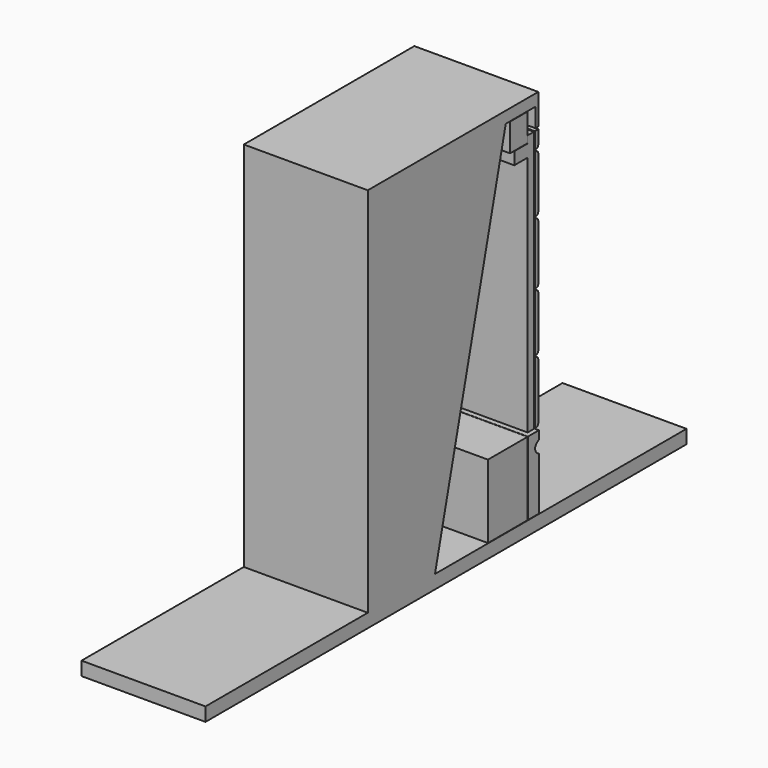
from build123d import *

# Parameters (mm, degrees)
F1_DEPTH      = 100
F1_DEPTH_BACK = 100
F0_W          = 34.9759974469
F0_H          = 45
F0_W_2        = 80
F0_H_2        = 39.9999883202
F0_H_3        = 39.5000116798
F0_H_4        = 38.9489678172
F0_W_3        = 23.8797763255
F0_H_5        = 20


with BuildPart() as f1:
    # F0 (on Right) → F1 (new body, two sides)
    with BuildSketch(Plane.YZ) as f1_sk:
        Polygon((-427.7376234531, 0), (-754.9997070302, 0), (-754.9997070302, -22), (214.9425135471, -22), (214.9425135471, 0), (-292.2143008412, 0), align=None)
        Polygon((-427.7376234531, 600), (-427.7376234531, 0), (-292.2143008412, 0), (-149.4990265369, 581.3576579094), (-89.4990265369, 581.3576579094), (-89.4990265369, 550.6148771089), (-83.9142134201, 550.6148771089), (-83.9142134201, 600), align=None)
    extrude(amount=F1_DEPTH)
    extrude(f1_sk.sketch, amount=-F1_DEPTH_BACK)


with BuildPart() as f1b:
    # F0 (on Right) → F1, piece 2 (new body, two sides)
    with BuildSketch(Plane.YZ) as f1_2_sk:
        with Locations((-123.4022121435, 558.3576579094)):
            Rectangle(F0_W, F0_H)
    extrude(amount=F1_DEPTH)
    extrude(f1_2_sk.sketch, amount=-F1_DEPTH_BACK)


with BuildPart() as f1c:
    # F0 (on Right) → F1, piece 3 (new body, two sides)
    with BuildSketch(Plane.YZ) as f1_3_sk:
        with Locations((-145.4142134201, 60.0000058399)):
            Rectangle(F0_W_2, F0_H_2)
        with Locations((-145.4142134201, 20.2500058399)):
            Rectangle(F0_W_2, F0_H_3)
        with Locations((-145.4142134201, 99.4744839086)):
            Rectangle(F0_W_2, F0_H_4)
    extrude(amount=F1_DEPTH)
    extrude(f1_3_sk.sketch, amount=-F1_DEPTH_BACK)


with BuildPart() as f1d:
    # F0 (on Right) → F1, piece 4 (new body, two sides)
    with BuildSketch(Plane.YZ) as f1_4_sk:
        with BuildLine():
            Line((-104.9142134201, 0.5), (-82.6184755082, 0.5))
            Line((-82.6184755082, 0.5), (-82.6962319007, 85.5785166937))
            add(Edge.make_bspline(
                [(-82.7145062746, 105.5737424313), (-88.3483122438, 101.991181286), (-92.1908083791, 96.734138044), (-88.6080723378, 88.645690703), (-82.6962319007, 85.5785166937)],
                knots=[0, 0, 0, 0, 0.4908509799, 1, 1, 1, 1], degree=3))
            Line((-82.7145062746, 105.5737424313), (-82.7267303861, 118.9489678172))
            Line((-82.7267303861, 118.9489678172), (-104.9142134201, 118.9489678172))
            Line((-104.9142134201, 118.9489678172), (-104.9142134201, 0.5))
        make_face()
    extrude(amount=F1_DEPTH)
    extrude(f1_4_sk.sketch, amount=-F1_DEPTH_BACK)


with BuildPart() as f1e:
    # F0 (on Right) → F1, piece 5 (new body, two sides)
    with BuildSketch(Plane.YZ) as f1_5_sk:
        Polygon((-105.4142134201, 515.3576579094), (-105.4142134201, 125), (-92.9142134201, 125), (-92.9142134201, 547), (-105.4142134201, 547), (-105.4142134201, 535.3576579094), align=None)
        Polygon((-107.2939897456, 515.3576579094), (-105.4142134201, 515.3576579094), (-105.4142134201, 535.3576579094), (-107.1194523898, 535.3576579094), align=None)
        Polygon((-108.4142134201, 515.3576579094), (-107.2939897456, 515.3576579094), (-107.1194523898, 535.3576579094), (-108.4142134201, 535.3576579094), align=None)
        with Locations((-120.3541015828, 525.3576579094)):
            Rectangle(F0_W_3, F0_H_5)
    extrude(amount=F1_DEPTH)
    extrude(f1_5_sk.sketch, amount=-F1_DEPTH_BACK)


with BuildPart() as f1f:
    # F0 (on Right) → F1, piece 6 (new body, two sides)
    with BuildSketch(Plane.YZ) as f1_6_sk:
        with BuildLine():
            Line((-88.9142134201, 225), (-90.9142134201, 225))
            Line((-90.9142134201, 225), (-90.9142134201, 125))
            Line((-90.9142134201, 125), (-88.9142134201, 125))
            ThreePointArc((-88.9142134201, 125), (-85.3786795141, 126.4644660941), (-83.9142134201, 130))
            Line((-83.9142134201, 130), (-83.9142134201, 220))
            ThreePointArc((-83.9142134201, 220), (-85.3786795141, 223.5355339059), (-88.9142134201, 225))
        make_face()
    extrude(amount=F1_DEPTH)
    extrude(f1_6_sk.sketch, amount=-F1_DEPTH_BACK)


with BuildPart() as f1g:
    # F0 (on Right) → F1, piece 7 (new body, two sides)
    with BuildSketch(Plane.YZ) as f1_7_sk:
        with BuildLine():
            Line((-90.9142134201, 319.9287502766), (-90.9142134201, 228))
            Line((-90.9142134201, 228), (-88.9142134201, 228))
            ThreePointArc((-88.9142134201, 228), (-85.3786795141, 229.4644660941), (-83.9142134201, 233))
            Line((-83.9142134201, 233), (-83.9142134201, 314.9287502766))
            ThreePointArc((-83.9142134201, 314.9287502766), (-85.3786795141, 318.4642841825), (-88.9142134201, 319.9287502766))
            Line((-88.9142134201, 319.9287502766), (-90.9142134201, 319.9287502766))
        make_face()
    extrude(amount=F1_DEPTH)
    extrude(f1_7_sk.sketch, amount=-F1_DEPTH_BACK)


with BuildPart() as f1h:
    # F0 (on Right) → F1, piece 8 (new body, two sides)
    with BuildSketch(Plane.YZ) as f1_8_sk:
        with BuildLine():
            Line((-88.9142134201, 421.9472338968), (-90.9142134201, 421.9472338968))
            Line((-90.9142134201, 421.9472338968), (-90.9142134201, 323.2205915266))
            Line((-90.9142134201, 323.2205915266), (-86.2669326212, 323.2205915266))
            ThreePointArc((-86.2669326212, 323.2205915266), (-84.5417767999, 325.0370361833), (-83.9142134201, 327.4622780275))
            Line((-83.9142134201, 327.4622780275), (-83.9142134201, 416.9472338968))
            ThreePointArc((-83.9142134201, 416.9472338968), (-85.3786795141, 420.4827678027), (-88.9142134201, 421.9472338968))
        make_face()
    extrude(amount=F1_DEPTH)
    extrude(f1_8_sk.sketch, amount=-F1_DEPTH_BACK)


with BuildPart() as f1i:
    # F0 (on Right) → F1, piece 9 (new body, two sides)
    with BuildSketch(Plane.YZ) as f1_9_sk:
        with BuildLine():
            Line((-90.9142134201, 517.4194891267), (-90.9142134201, 424.9472338968))
            Line((-90.9142134201, 424.9472338968), (-88.9142134201, 424.9472338968))
            ThreePointArc((-88.9142134201, 424.9472338968), (-85.3786795141, 426.4116999908), (-83.9142134201, 429.9472338968))
            Line((-83.9142134201, 429.9472338968), (-83.9142134201, 512.4194891267))
            ThreePointArc((-83.9142134201, 512.4194891267), (-85.3786795141, 515.9550230327), (-88.9142134201, 517.4194891267))
            Line((-88.9142134201, 517.4194891267), (-90.9142134201, 517.4194891267))
        make_face()
    extrude(amount=F1_DEPTH)
    extrude(f1_9_sk.sketch, amount=-F1_DEPTH_BACK)


with BuildPart() as f1j:
    # F0 (on Right) → F1, piece 10 (new body, two sides)
    with BuildSketch(Plane.YZ) as f1_10_sk:
        with BuildLine():
            Line((-90.9142134201, 547), (-90.9142134201, 520.2964544296))
            Line((-90.9142134201, 520.2964544296), (-88.9142134201, 520.2964544296))
            ThreePointArc((-88.9142134201, 520.2964544296), (-85.3786795141, 521.7609205237), (-83.9142134201, 525.2964544296))
            Line((-83.9142134201, 525.2964544296), (-83.9142134201, 547))
            Line((-83.9142134201, 547), (-90.9142134201, 547))
        make_face()
    extrude(amount=F1_DEPTH)
    extrude(f1_10_sk.sketch, amount=-F1_DEPTH_BACK)


solid = Compound([f1.part, f1b.part, f1c.part, f1d.part, f1e.part, f1f.part, f1g.part, f1h.part, f1i.part, f1j.part])
